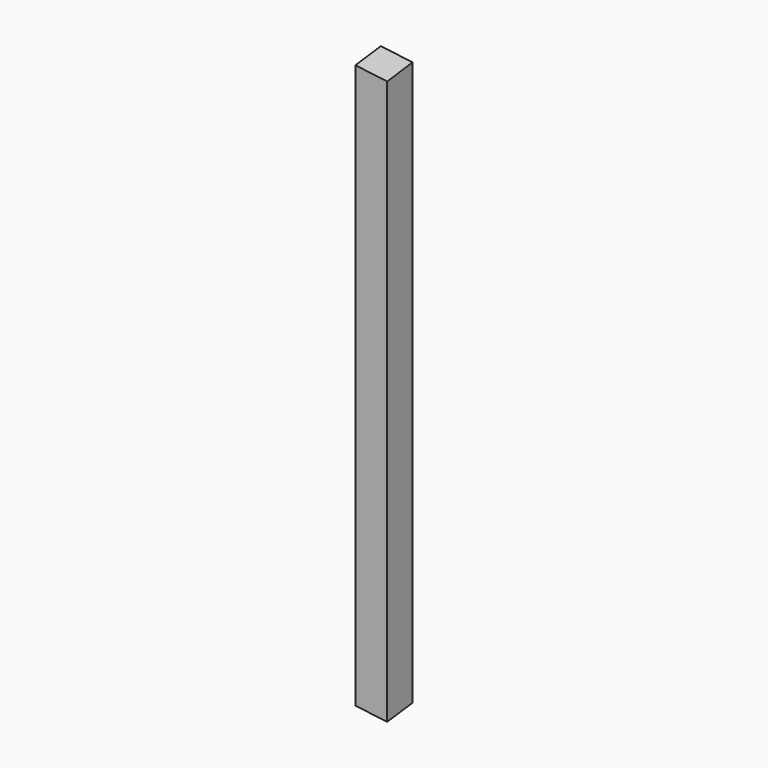
from build123d import *

# Parameters (mm, degrees)
F1_W     = 50.8
F1_H     = 914.4
F2_DEPTH = 50.8
F4_DEPTH = 38.1
F6_DEPTH = 38.1


with BuildPart() as f2:
    # F1 (on Right) → F2 (new body)
    with BuildSketch(Plane.YZ):
        with Locations((-25.4, 457.2)):
            Rectangle(F1_W, F1_H)
    extrude(amount=F2_DEPTH)

    # F3 (on face) → F4 (cut, symmetric)
    with BuildSketch(Plane(origin=(0, 0, 0), x_dir=(0.7071067812, -0.7071067812, 0), z_dir=(-0.7071067812, -0.7071067812, 0))):
        Polygon((71.8420489686, 914.4), (0, 914.4), (71.8420489686, 901.7323084175), align=None)
    extrude(amount=F4_DEPTH, both=True, mode=Mode.SUBTRACT)

    # F5 (on face) → F6 (cut, symmetric)
    with BuildSketch(Plane(origin=(0, 0, 0), x_dir=(0.7071067812, -0.7071067812, 0), z_dir=(-0.7071067812, -0.7071067812, 0))):
        Polygon((0, 12.6676915825), (0, 0), (71.8420489686, 0), align=None)
    extrude(amount=F6_DEPTH, both=True, mode=Mode.SUBTRACT)


solid = f2.part
